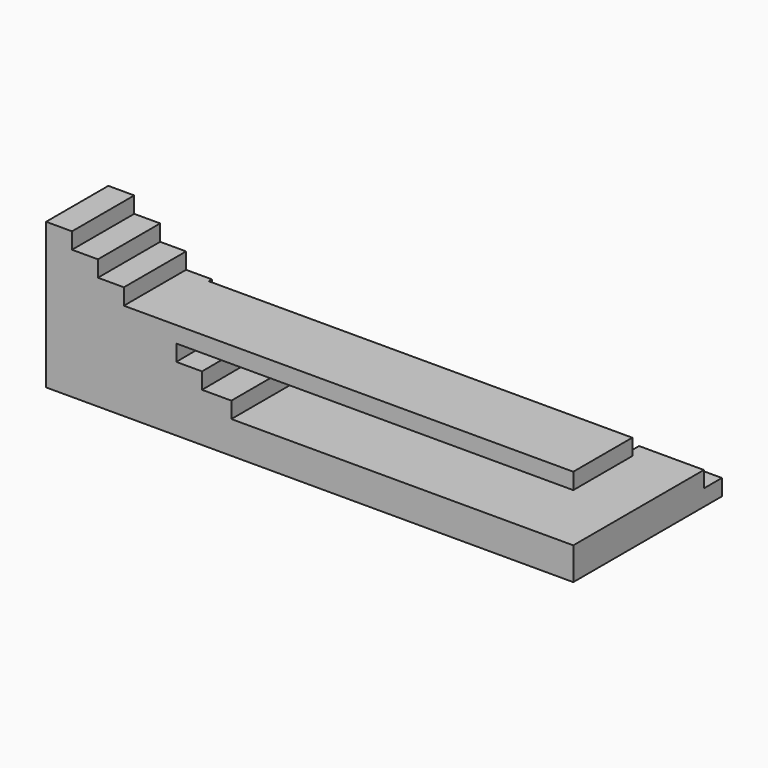
from build123d import *

# Parameters (mm, degrees)
F1_DEPTH  = 1714.5
F2_W      = 6769.754784
F2_H      = 2650.100802
F3_DEPTH  = 190.5
F4_W      = 6116.649264
F4_H      = 2878.354555
F5_DEPTH  = 190.5
F6_W      = 5600.98028
F6_H      = 2779.137729
F7_DEPTH  = 190.5
F9_DEPTH  = 190.5
F11_DEPTH = 190.5
F13_DEPTH = 190.5
F14_W     = 4581.816315
F14_H     = 3964.371144
F15_DEPTH = 190.5
F16_W     = 2687.302113
F16_H     = 397.61959
F17_DEPTH = 190.5


with BuildPart() as f1:
    # F0 (on Top) → F1 (new body)
    with BuildSketch(Plane.XY):
        Polygon((5435.6, -1270), (0, -1270), (0, -2184.4), (6197.6, -2184.4), (6197.6, 0), (5435.6, 0), align=None)
    extrude(amount=F1_DEPTH)

    # F2 (on face) → F3 (cut)
    with BuildSketch(Plane.XY.offset(1714.5)):
        with Locations((3689.677392, -1017.397985)):
            Rectangle(F2_W, F2_H)
    extrude(amount=-F3_DEPTH, mode=Mode.SUBTRACT)

    # F4 (on face) → F5 (cut)
    with BuildSketch(Plane.XY.offset(1524)):
        with Locations((3667.924632, -1029.948004)):
            Rectangle(F4_W, F4_H)
    extrude(amount=-F5_DEPTH, mode=Mode.SUBTRACT)

    # F6 (on face) → F7 (cut)
    with BuildSketch(Plane.XY.offset(1333.5)):
        with Locations((3714.89014, -1209.748089)):
            Rectangle(F6_W, F6_H)
    extrude(amount=-F7_DEPTH, mode=Mode.SUBTRACT)

    # F8 (on face) → F9 (cut)
    with BuildSketch(Plane.XY.offset(1143)):
        Polygon((6557.625086, 1586.404227), (1220.647244, 1473.571761), (1217.906237, -1317.29927), (6557.625086, -1317.29927), align=None)
    extrude(amount=-F9_DEPTH, mode=Mode.SUBTRACT)

    # F10 (on face) → F11 (cut)
    with BuildSketch(Plane.XY.offset(952.5)):
        Polygon((6549.054911, 597.07729), (1512.735535, 225.73574), (1533.949639, -2591.752768), (7090.906833, -2591.752768), align=None)
    extrude(amount=-F11_DEPTH, mode=Mode.SUBTRACT)

    # F12 (on face) → F13 (cut)
    with BuildSketch(Plane.XY.offset(762)):
        Polygon((6558.934754, 203.396683), (1822.20658, 72.947555), (1834.353823, -2401.819355), (6510.601342, -2558.526313), align=None)
    extrude(amount=-F13_DEPTH, mode=Mode.SUBTRACT)

    # F14 (on face) → F15 (cut)
    with BuildSketch(Plane.XY.offset(571.5)):
        with Locations((4468.941867, -1327.456981)):
            Rectangle(F14_W, F14_H)
    extrude(amount=-F15_DEPTH, mode=Mode.SUBTRACT)

    # F16 (on face) → F17 (cut)
    with BuildSketch(Plane.XY.offset(381)):
        with Locations((5400.902509, -66.219874)):
            Rectangle(F16_W, F16_H)
    extrude(amount=-F17_DEPTH, mode=Mode.SUBTRACT)


solid = f1.part
